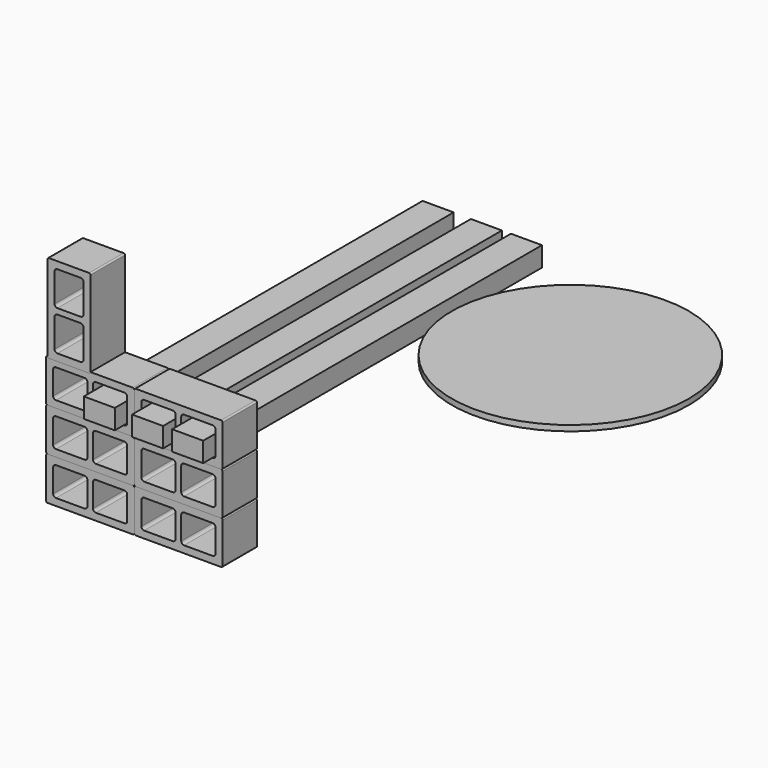
from build123d import *

# Parameters (mm, degrees)
F2_DEPTH       = 193.675
F9_W           = 139.7
F9_H           = 88.9
F10_DEPTH      = 254
F10_DEPTH_BACK = 1651
F4_R           = 533.4
F11_DEPTH      = 25.4
F12_ANGLE      = -90


with BuildPart() as f2:
    # F0 (on Front) → F2 (new body)
    with BuildSketch(Plane.XZ):
        with BuildLine():
            Line((-390.525, 0), (-6.35, 0))
            ThreePointArc((-6.35, 0), (-1.8598719395, 1.8598719395), (0, 6.35))
            Line((0, 6.35), (0, 187.325))
            ThreePointArc((0, 187.325), (-1.8598719395, 191.8151280605), (-6.35, 193.675))
            Line((-6.35, 193.675), (-390.525, 193.675))
            ThreePointArc((-390.525, 193.675), (-395.0151280605, 191.8151280605), (-396.875, 187.325))
            Line((-396.875, 187.325), (-396.875, 6.35))
            ThreePointArc((-396.875, 6.35), (-395.0151280605, 1.8598719395), (-390.525, 0))
        make_face()
        with BuildLine():
            ThreePointArc((-365.125, 149.225), (-361.4052561211, 158.2052561211), (-352.425, 161.925))
            Line((-352.425, 161.925), (-223.8375, 161.925))
            ThreePointArc((-223.8375, 161.925), (-214.8572438789, 158.2052561211), (-211.1375, 149.225))
            Line((-211.1375, 149.225), (-211.1375, 44.45))
            ThreePointArc((-211.1375, 44.45), (-214.8572438789, 35.4697438789), (-223.8375, 31.75))
            Line((-223.8375, 31.75), (-352.425, 31.75))
            ThreePointArc((-352.425, 31.75), (-361.4052561211, 35.4697438789), (-365.125, 44.45))
            Line((-365.125, 44.45), (-365.125, 149.225))
        make_face(mode=Mode.SUBTRACT)
        with BuildLine():
            ThreePointArc((-185.7375, 149.225), (-182.0177561211, 158.2052561211), (-173.0375, 161.925))
            Line((-173.0375, 161.925), (-44.45, 161.925))
            ThreePointArc((-44.45, 161.925), (-35.4697438789, 158.2052561211), (-31.75, 149.225))
            Line((-31.75, 149.225), (-31.75, 44.45))
            ThreePointArc((-31.75, 44.45), (-35.4697438789, 35.4697438789), (-44.45, 31.75))
            Line((-44.45, 31.75), (-173.0375, 31.75))
            ThreePointArc((-173.0375, 31.75), (-182.0177561211, 35.4697438789), (-185.7375, 44.45))
            Line((-185.7375, 44.45), (-185.7375, 149.225))
        make_face(mode=Mode.SUBTRACT)
    extrude(amount=F2_DEPTH)


with BuildPart() as f3_1:
    # F3: copy of F2
    add(f2.part.moved(Location((396.875, 0, 0))))


with BuildPart() as f5_1:
    # F5: copy of F2
    add(f2.part.moved(Location((0, 0, 193.675))))


with BuildPart() as f6_1:
    # F6: copy of F3_1
    add(f3_1.part.moved(Location((0, 0, 193.675))))


with BuildPart() as f7_1:
    # F7: copy of F5_1
    add(f5_1.part.moved(Location((0, 0, 193.675))))


with BuildPart() as f8_1:
    # F8: copy of F6_1
    add(f6_1.part.moved(Location((0, 0, 193.675))))


with BuildPart() as f10:
    # F9 (on Front) → F10 (new body, two sides)
    with BuildSketch(Plane.XZ) as f10_sk:
        with Locations((-109.0847611487, 470.4215376854)):
            Rectangle(F9_W, F9_H)
    extrude(amount=F10_DEPTH)
    extrude(f10_sk.sketch, amount=-F10_DEPTH_BACK)


with BuildPart() as f10b:
    # F9 (on Front) → F10, piece 2 (new body, two sides)
    with BuildSketch(Plane.XZ) as f10_2_sk:
        with Locations((108.0060474634, 469.4032519341)):
            Rectangle(F9_W, F9_H)
    extrude(amount=F10_DEPTH)
    extrude(f10_2_sk.sketch, amount=-F10_DEPTH_BACK)


with BuildPart() as f10c:
    # F9 (on Front) → F10, piece 3 (new body, two sides)
    with BuildSketch(Plane.XZ) as f10_3_sk:
        with Locations((288.2451586485, 469.7111398697)):
            Rectangle(F9_W, F9_H)
    extrude(amount=F10_DEPTH)
    extrude(f10_3_sk.sketch, amount=-F10_DEPTH_BACK)


with BuildPart() as f11:
    # F4 (on offset) → F11 (new body)
    with BuildSketch(Plane.XY.offset(736.6)):
        with Locations((1254.7127008438, 689.6389722824)):
            Circle(F4_R)
    extrude(amount=F11_DEPTH)


with BuildPart() as f12_1:
    # F12: copy of F7_1
    add(f7_1.part.rotate(Axis((-390.525, -96.8375, 581.025), (0, 1, 0)), F12_ANGLE))


solid = Compound([f2.part, f3_1.part, f5_1.part, f6_1.part, f7_1.part, f8_1.part, f10.part, f10b.part, f10c.part, f11.part, f12_1.part])
